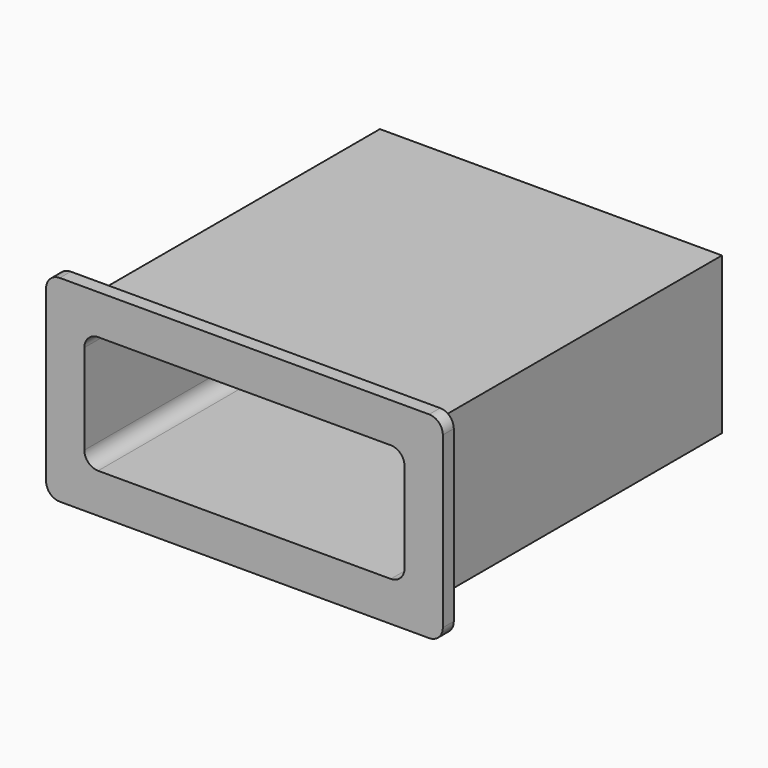
from build123d import *

# Parameters (mm, degrees)
SKETCH009_W     = 12.5
SKETCH009_H     = 5.72
PAD007_DEPTH    = 6.75
PAD008_DEPTH    = 0.5
POCKET002_DEPTH = 12


with BuildPart() as part:
    # Sketch009 → Pad007 (new body, symmetric)
    with BuildSketch(Plane.XZ):
        with Locations((0, 4.14)):
            Rectangle(SKETCH009_W, SKETCH009_H)
    extrude(amount=PAD007_DEPTH, both=True)

    # Sketch010 (on Face6 of Pad007) → Pad008 (join)
    with BuildSketch(Plane.XZ.offset(6.75)):
        with BuildLine():
            ThreePointArc((-6.75, 7.74), (-7.103553, 7.593553), (-7.25, 7.24))
            Line((-7.25, 1.04), (-7.25, 7.24))
            ThreePointArc((-7.25, 1.04), (-7.103553, 0.686447), (-6.75, 0.54))
            Line((6.75, 0.54), (-6.75, 0.54))
            ThreePointArc((6.75, 0.54), (7.103553, 0.686447), (7.25, 1.04))
            Line((7.25, 7.24), (7.25, 1.04))
            ThreePointArc((7.25, 7.24), (7.103553, 7.593553), (6.75, 7.74))
            Line((-6.75, 7.74), (6.75, 7.74))
        make_face()
    extrude(amount=PAD008_DEPTH)

    # Sketch011 (on Face5 of Pad008) → Pocket002 (cut)
    with BuildSketch(Plane.XZ.offset(7.25)):
        with BuildLine():
            ThreePointArc((-5.35, 6.29), (-5.703553, 6.143553), (-5.85, 5.79))
            Line((-5.85, 2.49), (-5.85, 5.79))
            ThreePointArc((-5.85, 2.49), (-5.703553, 2.136447), (-5.35, 1.99))
            Line((5.35, 1.99), (-5.35, 1.99))
            ThreePointArc((5.35, 1.99), (5.703553, 2.136447), (5.85, 2.49))
            Line((5.85, 5.79), (5.85, 2.49))
            ThreePointArc((5.85, 5.79), (5.703553, 6.143553), (5.35, 6.29))
            Line((-5.35, 6.29), (5.35, 6.29))
        make_face()
    extrude(amount=-POCKET002_DEPTH, mode=Mode.SUBTRACT)


with BuildPart() as part_1:
    # Body004 placement: moved
    add(part.part.moved(Location((-9.53, -23.5, 1.6))))


solid = part_1.part
